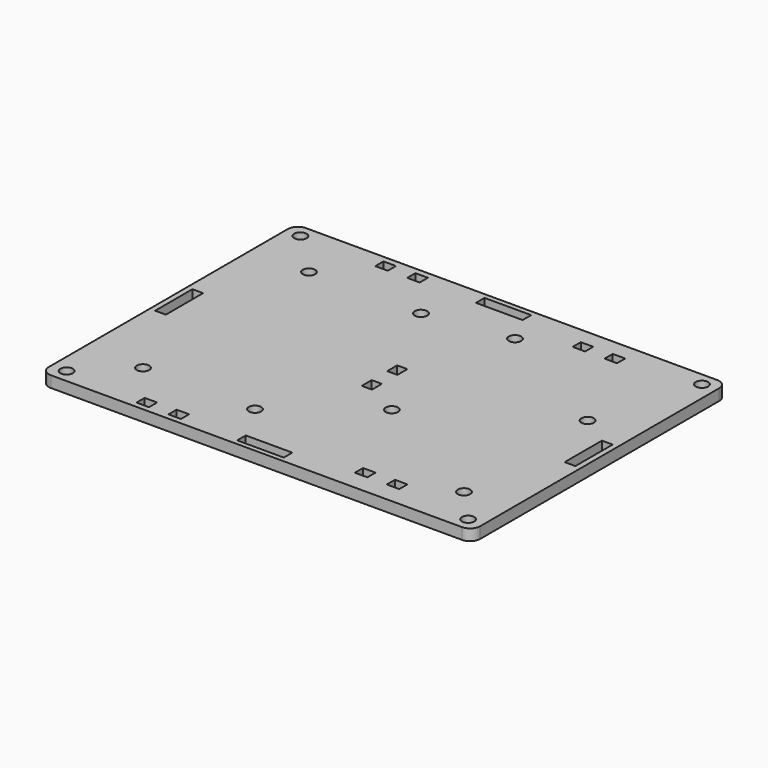
from build123d import *

# Parameters (mm, degrees)
F0_W     = 115
F0_H     = 85
F0_W_2   = 3.3230667468
F0_H_2   = 2.7188727399
F0_W_3   = 12.42488157
F0_H_3   = 2.8554350138
F0_W_4   = 2.7188727399
F0_H_4   = 3.3230667468
F0_W_5   = 2.8554350138
F0_H_5   = 12.42488157
F1_DEPTH = 3
F2_R     = 2.6556349186
F3_D     = 3.3
F3_DEPTH = 13.5
F3_TIP   = 0.9914200214
F4_D     = 3.3


with BuildPart() as f1:
    # F0 (on Top) → F1 (new body)
    with BuildSketch(Plane.XY):
        Rectangle(F0_W, F0_H)
        with Locations((-31.5384735586, -39.6359708975)):
            Rectangle(F0_W_2, F0_H_2, mode=Mode.SUBTRACT)
        with Locations((-23.0330330087, -39.6208088496)):
            Rectangle(F0_W_2, F0_H_2, mode=Mode.SUBTRACT)
        with Locations((0.012440607, -39.7679619491)):
            Rectangle(F0_W_3, F0_H_3, mode=Mode.SUBTRACT)
        with Locations((23.7232622458, -35.9257351956)):
            Rectangle(F0_W_2, F0_H_2, mode=Mode.SUBTRACT)
        with Locations((32.2287027957, -35.9105731477)):
            Rectangle(F0_W_2, F0_H_2, mode=Mode.SUBTRACT)
        with Locations((0.0594367157, -4.1384646902)):
            Rectangle(F0_W_4, F0_H_4, mode=Mode.SUBTRACT)
        with Locations((54.6148940921, -0.0461908057)):
            Rectangle(F0_W_5, F0_H_5, mode=Mode.SUBTRACT)
        with Locations((-54.6360462904, 0)):
            Rectangle(F0_W_5, F0_H_5, mode=Mode.SUBTRACT)
        with Locations((-31.1669755029, 39.4913438358)):
            Rectangle(F0_W_2, F0_H_2, mode=Mode.SUBTRACT)
        with Locations((-22.6615349529, 39.5065058838)):
            Rectangle(F0_W_2, F0_H_2, mode=Mode.SUBTRACT)
        with Locations((0.0442746677, 4.3669758597)):
            Rectangle(F0_W_4, F0_H_4, mode=Mode.SUBTRACT)
        with Locations((0.1124413684, 39.7277288139)):
            Rectangle(F0_W_3, F0_H_3, mode=Mode.SUBTRACT)
        with Locations((23.6730267061, 36.7241497734)):
            Rectangle(F0_W_2, F0_H_2, mode=Mode.SUBTRACT)
        with Locations((32.178467256, 36.7393118213)):
            Rectangle(F0_W_2, F0_H_2, mode=Mode.SUBTRACT)
    extrude(amount=-F1_DEPTH)

    # F2
    f2_edges = [f1.edges().sort_by_distance(p)[0] for p in [
        (57.5, -42.5, -1.5),
        (57.5, 42.5, -1.5),
        (-57.5, -42.5, -1.5),
        (-57.5, 42.5, -1.5),
    ]]
    fillet(f2_edges, radius=F2_R)

    # F3
    with Locations(Plane.XY):
        with Locations((-53.4860491753, -38.9412779514), (-53.4860491753, 39.0123836696), (53.5768903792, -38.9412779514), (53.5768903792, 39.0123836696)):
            Hole(F3_D / 2, depth=F3_DEPTH)
            with Locations((0, 0, -(F3_DEPTH + F3_TIP / 2))):  # 118° drill point
                Cone(0, F3_D / 2, F3_TIP, mode=Mode.SUBTRACT)

    # F4 (through all)
    with Locations(Plane.XY):
        with Locations((-41.9517233968, 27.4363141507), (-12.0857078582, 27.4363141507), (-12.0857078582, -27.9048345983), (10.3388316929, 30.7378862053), (45.184802264, 11.4016206935), (45.184802264, -29.8165101558), (10.3388316929, -10.2981757373), (-41.9517233968, -27.9048345983)):
            Hole(F4_D / 2)


solid = f1.part
